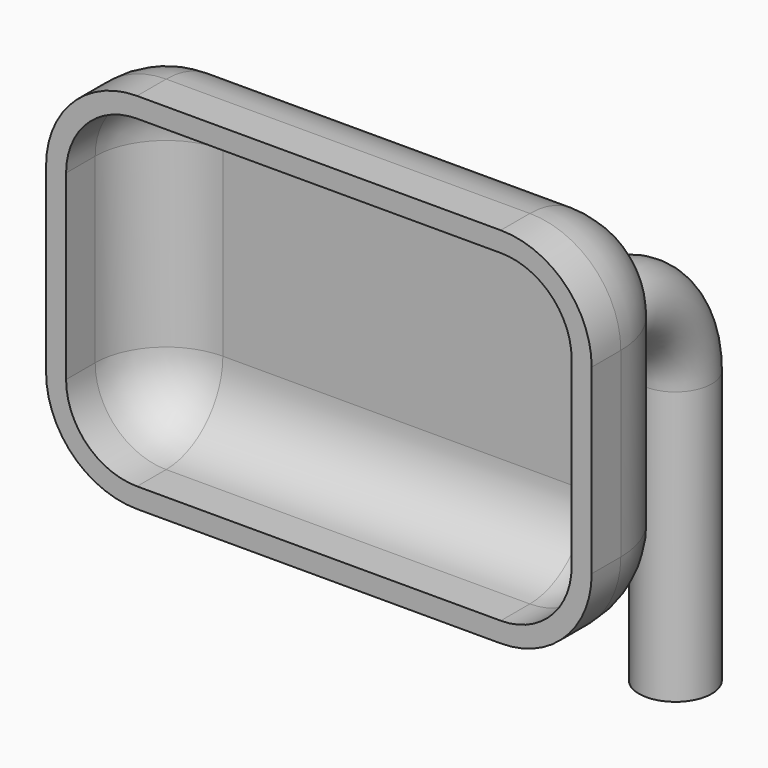
from build123d import *

# Parameters (mm, degrees)
F1_DEPTH = 0.7
F2_R     = 0.5
F3_T     = -0.11
F6_R     = 0.2


with BuildPart() as f1:
    # F0 (on Front) → F1 (new body)
    with BuildSketch(Plane.XZ):
        with BuildLine():
            ThreePointArc((0, 0.5), (0.1464466094, 0.1464466094), (0.5, 0))
            Line((0.5, 0), (2.5, 0))
            ThreePointArc((2.5, 0), (2.8535533906, 0.1464466094), (3, 0.5))
            Line((3, 0.5), (3, 1.5))
            ThreePointArc((3, 1.5), (2.8535533906, 1.8535533906), (2.5, 2))
            Line((2.5, 2), (0.5, 2))
            ThreePointArc((0.5, 2), (0.1464466094, 1.8535533906), (0, 1.5))
            Line((0, 1.5), (0, 0.5))
        make_face()
    extrude(amount=F1_DEPTH)

    # F2
    f2_edges = [f1.edges().sort_by_distance(p)[0] for p in [
        (0, 0, 1),
        (0.146447, 0, 0.146447),
        (1.5, 0, 0),
        (2.853553, 0, 0.146447),
        (3, 0, 1),
        (2.853553, 0, 1.853553),
        (1.5, 0, 2),
        (0.146447, 0, 1.853553),
    ]]
    fillet(f2_edges, radius=F2_R)

    # F3
    f3_openings = [f1.faces().sort_by_distance(p)[0] for p in [
        (1.5, -0.7, 1),
    ]]
    offset(amount=F3_T, openings=f3_openings)

    # F7: sweep along a path in F5
    with BuildLine(Plane.YZ.offset(1.5)) as f7_path:
        Line((1, -1), (1, 0.5))
        ThreePointArc((1, 0.5), (0.8535533906, 0.8535533906), (0.5, 1))
        Line((0.5, 1), (0, 1))
    # F6 (on face) → F7 (sweep)
    with BuildSketch(Plane(origin=(0, 0, 0), x_dir=(-1, 0, 0), z_dir=(0, 1, 0))):
        with Locations((-2.1, 1)):
            Circle(F6_R)
        with Locations((-0.9, 1)):
            Circle(F6_R)
    sweep(path=f7_path.line)


solid = f1.part
